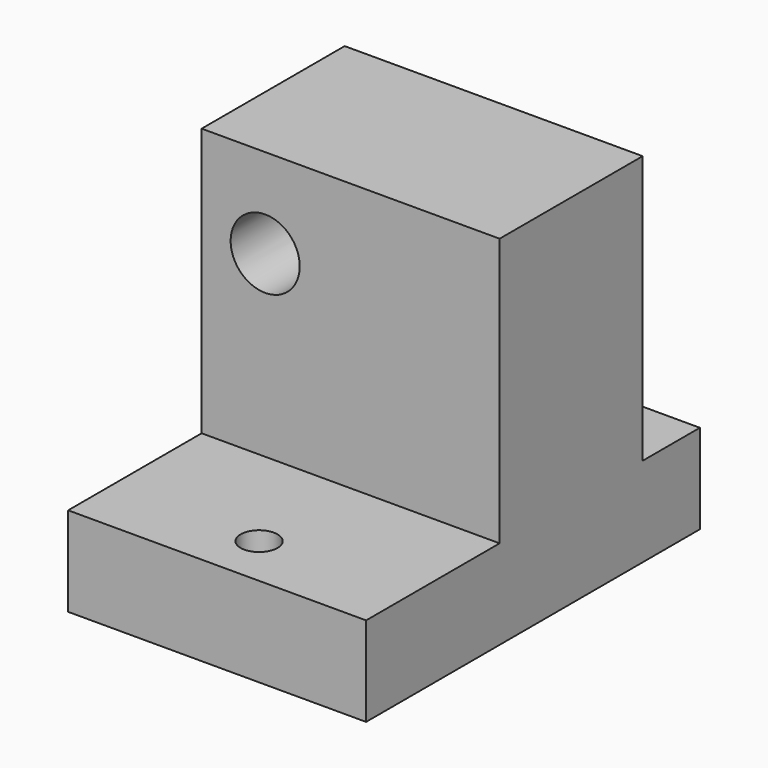
from build123d import *

# Parameters (mm, degrees)
F0_W     = 63.5
F0_H     = 35.56
F0_R     = 3.937
F0_R_2   = 11.303
F0_R_3   = 7.62
F0_R_4   = 5.08
F0_H_2   = 15.24
F0_H_3   = 38.1
F1_DEPTH = 19.05
F2_DEPTH = 76.2
F3_DEPTH = 3.175
F4_DEPTH = 6.35
F5_R     = 7.366
F6_DEPTH = 19.05
F7_DEPTH = 50.8
F8_DEPTH = 57.15


with BuildPart() as f1:
    # F0 (on Top) → F1 (new body)
    with BuildSketch(Plane.XY):
        with Locations((31.75, 17.78)):
            Rectangle(F0_W, F0_H)
        with Locations((31.75, 11.176)):
            Circle(F0_R, mode=Mode.SUBTRACT)
        with Locations((49.9618, 59.944)):
            Circle(F0_R_2)
        with Locations((49.9618, 59.944)):
            Circle(F0_R_3, mode=Mode.SUBTRACT)
        with Locations((13.5382, 59.944)):
            Circle(F0_R_2)
        with Locations((13.5382, 59.944)):
            Circle(F0_R_3, mode=Mode.SUBTRACT)
        with Locations((49.9618, 59.944)):
            Circle(F0_R_3)
        with Locations((49.9618, 59.944)):
            Circle(F0_R_4, mode=Mode.SUBTRACT)
        with Locations((13.5382, 59.944)):
            Circle(F0_R_3)
        with Locations((13.5382, 59.944)):
            Circle(F0_R_4, mode=Mode.SUBTRACT)
        with Locations((31.75, 81.28)):
            Rectangle(F0_W, F0_H_2)
        with Locations((11.43, 81.28)):
            Circle(F0_R, mode=Mode.SUBTRACT)
        with Locations((52.07, 81.28)):
            Circle(F0_R, mode=Mode.SUBTRACT)
        with Locations((31.75, 54.61)):
            Rectangle(F0_W, F0_H_3)
        with Locations((13.5382, 59.944)):
            Circle(F0_R_2, mode=Mode.SUBTRACT)
        with Locations((49.9618, 59.944)):
            Circle(F0_R_2, mode=Mode.SUBTRACT)
        with Locations((49.9618, 59.944)):
            Circle(F0_R_4)
        with Locations((13.5382, 59.944)):
            Circle(F0_R_4)
    extrude(amount=F1_DEPTH)

    # F0 (on Top) → F2 (join)
    with BuildSketch(Plane.XY):
        with Locations((31.75, 54.61)):
            Rectangle(F0_W, F0_H_3)
        with Locations((13.5382, 59.944)):
            Circle(F0_R_2, mode=Mode.SUBTRACT)
        with Locations((49.9618, 59.944)):
            Circle(F0_R_2, mode=Mode.SUBTRACT)
        with Locations((13.5382, 59.944)):
            Circle(F0_R_2)
        with Locations((13.5382, 59.944)):
            Circle(F0_R_3, mode=Mode.SUBTRACT)
        with Locations((49.9618, 59.944)):
            Circle(F0_R_2)
        with Locations((49.9618, 59.944)):
            Circle(F0_R_3, mode=Mode.SUBTRACT)
        with Locations((49.9618, 59.944)):
            Circle(F0_R_3)
        with Locations((49.9618, 59.944)):
            Circle(F0_R_4, mode=Mode.SUBTRACT)
        with Locations((13.5382, 59.944)):
            Circle(F0_R_3)
        with Locations((13.5382, 59.944)):
            Circle(F0_R_4, mode=Mode.SUBTRACT)
        with Locations((49.9618, 59.944)):
            Circle(F0_R_4)
        with Locations((13.5382, 59.944)):
            Circle(F0_R_4)
    extrude(amount=F2_DEPTH)

    # F0 (on Top) → F3 (cut)
    with BuildSketch(Plane.XY):
        with Locations((49.9618, 59.944)):
            Circle(F0_R_2)
        with Locations((49.9618, 59.944)):
            Circle(F0_R_3, mode=Mode.SUBTRACT)
        with Locations((13.5382, 59.944)):
            Circle(F0_R_2)
        with Locations((13.5382, 59.944)):
            Circle(F0_R_3, mode=Mode.SUBTRACT)
    extrude(amount=F3_DEPTH, mode=Mode.SUBTRACT)

    # F0 (on Top) → F4 (cut)
    with BuildSketch(Plane.XY):
        with Locations((49.9618, 59.944)):
            Circle(F0_R_3)
        with Locations((49.9618, 59.944)):
            Circle(F0_R_4, mode=Mode.SUBTRACT)
        with Locations((13.5382, 59.944)):
            Circle(F0_R_3)
        with Locations((13.5382, 59.944)):
            Circle(F0_R_4, mode=Mode.SUBTRACT)
    extrude(amount=F4_DEPTH, mode=Mode.SUBTRACT)

    # F5 (on face) → F6 (cut)
    with BuildSketch(Plane(origin=(0, 73.66, 0), x_dir=(-1, 0, 0), z_dir=(0, 1, 0))):
        with Locations((-49.9618, 57.15)):
            Circle(F5_R)
    extrude(amount=-F6_DEPTH, mode=Mode.SUBTRACT)

    # F5 (on face) → F7 (cut)
    with BuildSketch(Plane(origin=(0, 73.66, 0), x_dir=(-1, 0, 0), z_dir=(0, 1, 0))):
        with Locations((-13.5382, 57.15)):
            Circle(F5_R)
    extrude(amount=-F7_DEPTH, mode=Mode.SUBTRACT)

    # F0 (on Top) → F8 (cut)
    with BuildSketch(Plane.XY):
        with Locations((49.9618, 59.944)):
            Circle(F0_R_4)
        with Locations((13.5382, 59.944)):
            Circle(F0_R_4)
    extrude(amount=F8_DEPTH, mode=Mode.SUBTRACT)


solid = f1.part
